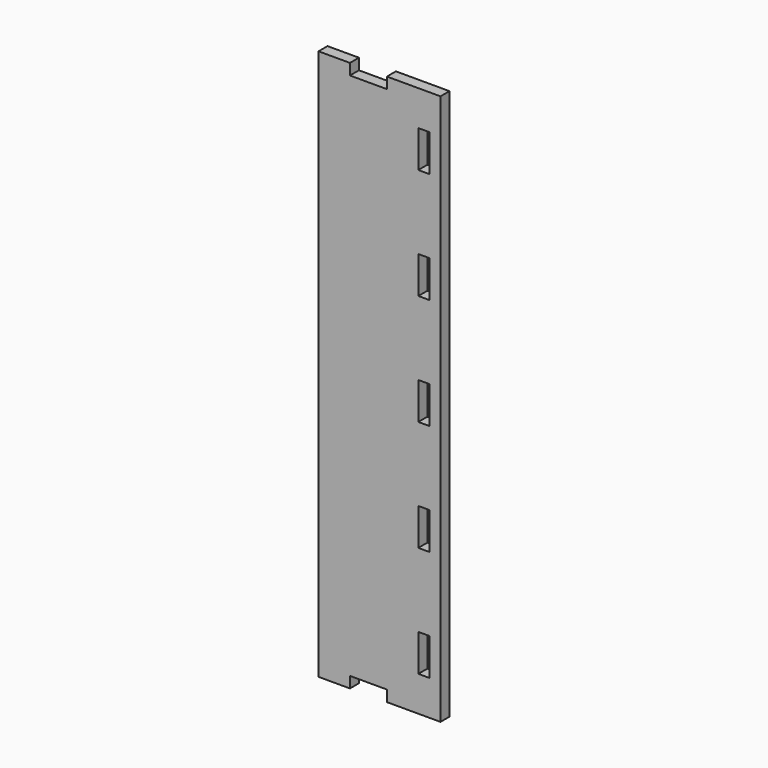
from build123d import *

# Parameters (mm, degrees)
F0_W     = 2.999994
F0_H     = 10.000005
F0_H_2   = 9.99998
F1_DEPTH = 3.048


with BuildPart() as f1:
    # F0 (on Front) → F1 (new body)
    with BuildSketch(Plane.XZ):
        Polygon((16.499992, 74.500003), (1.999996, 74.500003), (1.999996, 71.500009), (-8.000009, 71.500009), (-8.000009, 74.500003), (-16.499992, 74.500003), (-16.499992, -74.499978), (-8.000009, -74.499978), (-8.000009, -71.499984), (1.999996, -71.499984), (1.999996, -74.499978), (16.499992, -74.499978), align=None)
        with Locations((12.000001, -59.999994)):
            Rectangle(F0_W, F0_H, mode=Mode.SUBTRACT)
        with Locations((12.000001, -29.999991)):
            Rectangle(F0_W, F0_H_2, mode=Mode.SUBTRACT)
        with Locations((12.000001, 1.2e-05)):
            Rectangle(F0_W, F0_H, mode=Mode.SUBTRACT)
        with Locations((12.000001, 30.000003)):
            Rectangle(F0_W, F0_H, mode=Mode.SUBTRACT)
        with Locations((12.000001, 60.000007)):
            Rectangle(F0_W, F0_H_2, mode=Mode.SUBTRACT)
    extrude(amount=F1_DEPTH)


solid = f1.part
